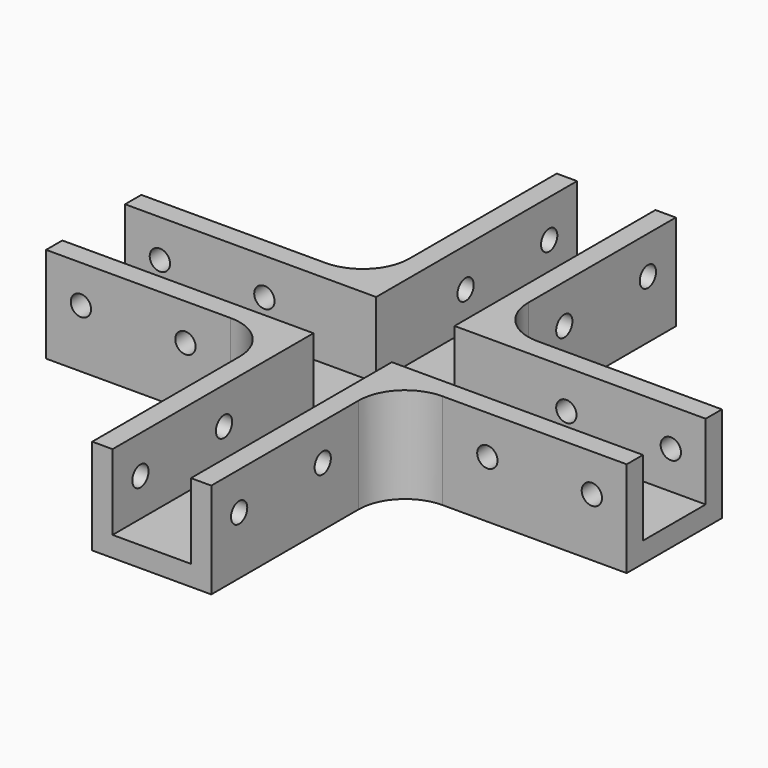
from build123d import *

# Parameters (mm, degrees)
F1_DEPTH = 16.5
F2_W     = 13.5
F2_H     = 13
F3_DEPTH = 100.001
F4_W     = 13.5
F4_H     = 13
F5_DEPTH = 100.001
F6_R     = 1.75
F7_DEPTH = 60.251
F8_R     = 1.75
F9_DEPTH = 60.251
F10_R    = 8


with BuildPart() as f1:
    # F0 (on Top) → F1 (new body)
    with BuildSketch(Plane.XY):
        Polygon((-10.25, 10.25), (-50, 10.25), (-50, -10.25), (-10.25, -10.25), (-10.25, -50), (10.25, -50), (10.25, -10.25), (50, -10.25), (50, 10.25), (10.25, 10.25), (10.25, 50), (-10.25, 50), align=None)
    extrude(amount=F1_DEPTH)

    # F2 (on face) → F3 (cut, through all)
    with BuildSketch(Plane.YZ.offset(50)):
        with Locations((0, 10)):
            Rectangle(F2_W, F2_H)
    extrude(amount=-F3_DEPTH, mode=Mode.SUBTRACT)

    # F4 (on face) → F5 (cut, through all)
    with BuildSketch(Plane.XZ.offset(50)):
        with Locations((0, 10)):
            Rectangle(F4_W, F4_H)
    extrude(amount=-F5_DEPTH, mode=Mode.SUBTRACT)

    # F6 (on face) → F7 (cut, through all)
    with BuildSketch(Plane.YZ.offset(10.25)):
        with Locations((44, 10)):
            Circle(F6_R)
        with Locations((26.000956, 9.814443)):
            Circle(F6_R)
        with Locations((-26.000956, 10.185557)):
            Circle(F6_R)
        with Locations((-44, 10)):
            Circle(F6_R)
    extrude(amount=-F7_DEPTH, mode=Mode.SUBTRACT)

    # F8 (on face) → F9 (cut, through all)
    with BuildSketch(Plane.XZ.offset(10.25)):
        with Locations((44, 10)):
            Circle(F8_R)
        with Locations((26.000956, 9.814443)):
            Circle(F8_R)
        with Locations((-26.000956, 10.185557)):
            Circle(F8_R)
        with Locations((-44, 10)):
            Circle(F8_R)
    extrude(amount=-F9_DEPTH, mode=Mode.SUBTRACT)

    # F10
    f10_edges = [f1.edges().sort_by_distance(p)[0] for p in [
        (10.25, -10.25, 8.25),
        (10.25, 10.25, 8.25),
        (-10.25, 10.25, 8.25),
        (-10.25, -10.25, 8.25),
    ]]
    fillet(f10_edges, radius=F10_R)


solid = f1.part
